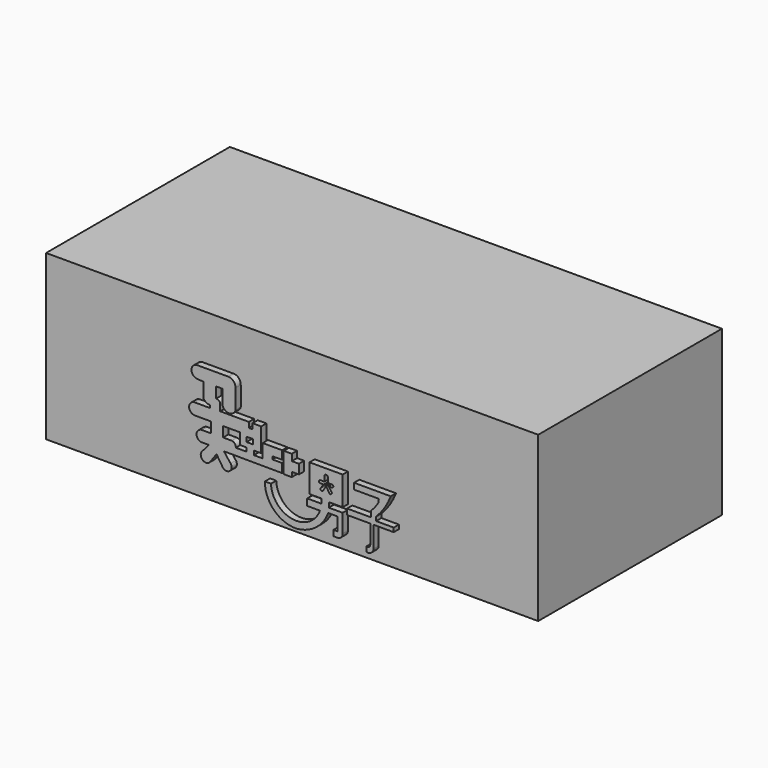
from build123d import *

# Parameters (mm, degrees)
F0_W     = 70
F0_H     = 50
F1_DEPTH = 150
F2_T     = -2.5
F4_DEPTH = 2


with BuildPart() as f1:
    # F0 (on Right) → F1 (new body)
    with BuildSketch(Plane.YZ):
        with Locations((35, 25)):
            Rectangle(F0_W, F0_H)
    extrude(amount=F1_DEPTH)

    # F2
    f2_openings = [f1.faces().sort_by_distance(p)[0] for p in [
        (75, 35, 0),
    ]]
    offset(amount=F2_T, openings=f2_openings)

    # F3 (on Front) → F4 (join)
    with BuildSketch(Plane.XZ):
        with BuildLine():
            Line((57.11453, 36.209103), (47.46139, 36.209103))
            ThreePointArc((47.46139, 36.209103), (45.909707, 34.307581), (47.600284, 32.528408))
            Line((47.600284, 32.528408), (49.579524, 32.389514))
            Line((49.579524, 32.389514), (49.579524, 27.944904))
            ThreePointArc((49.579524, 27.944904), (50.38126, 27.095251), (51.50668, 26.782002))
            ThreePointArc((51.50668, 26.782002), (52.632099, 27.095251), (53.433836, 27.944904))
            Line((53.433836, 27.944904), (53.433836, 29.116847))
            Line((53.433836, 29.116847), (53.433836, 32.389514))
            Line((53.433836, 32.389514), (55.413075, 32.389514))
            Line((55.413075, 32.389514), (55.413075, 27.944904))
            ThreePointArc((55.413075, 27.944904), (57.374954, 26.432392), (59.336834, 27.944904))
            Line((59.336834, 27.944904), (59.336834, 33.917353))
            ThreePointArc((59.336834, 33.917353), (58.710678, 35.533527), (57.11453, 36.209103))
        make_face()
        with BuildLine():
            ThreePointArc((53.433836, 27.944904), (52.632099, 27.095251), (51.50668, 26.782002))
            Line((51.50668, 26.782002), (51.50668, 25.973246))
            Line((51.50668, 25.973246), (46.945356, 25.973246))
            ThreePointArc((46.945356, 25.973246), (45.1954, 24.223289), (46.945356, 22.473333))
            Line((46.945356, 22.473333), (51.845234, 22.473333))
            Line((51.845234, 22.473333), (51.845234, 19.279664))
            Line((51.845234, 19.279664), (49.132802, 19.279664))
            ThreePointArc((49.132802, 19.279664), (47.470343, 17.617206), (49.132802, 15.954748))
            Line((49.132802, 15.954748), (51.232748, 15.954748))
            Line((51.232748, 15.954748), (49.132802, 13.548559))
            ThreePointArc((49.132802, 13.548559), (49.262718, 11.31813), (51.495243, 11.404863))
            Line((51.495243, 11.404863), (53.551439, 14.24854))
            Line((53.551439, 14.24854), (55.388894, 11.404863))
            ThreePointArc((55.388894, 11.404863), (57.530578, 10.996438), (57.838831, 13.154818))
            Line((57.838831, 13.154818), (55.80093, 15.74391))
            Line((55.80093, 15.74391), (58.145076, 15.74391))
            Line((58.145076, 15.74391), (73.538758, 15.648505))
            Line((73.538758, 15.648505), (73.538758, 18.361211))
            Line((73.538758, 18.361211), (70.587255, 18.361211))
            Line((70.587255, 18.361211), (70.587255, 19.2293))
            Line((70.587255, 19.2293), (73.538758, 19.2293))
            Line((73.538758, 19.2293), (73.538758, 21.79884))
            Line((73.538758, 21.79884), (67.63576, 21.79884))
            Line((67.63576, 21.79884), (67.63576, 17.66674))
            Line((67.63576, 17.66674), (64.927325, 17.66674))
            Line((64.927325, 17.66674), (64.927325, 18.916788))
            Line((64.927325, 18.916788), (67.149632, 18.916788))
            Line((67.149632, 18.916788), (67.149632, 26.104558))
            Line((67.149632, 26.104558), (64.510643, 26.104558))
            Line((64.510643, 26.104558), (64.510643, 24.472551))
            Line((64.510643, 24.472551), (63.399486, 24.472551))
            Line((63.399486, 24.472551), (63.399486, 26.104558))
            Line((63.399486, 26.104558), (54.681171, 26.104558))
            Line((54.681171, 26.104558), (54.681171, 27.944904))
            ThreePointArc((54.681171, 27.944904), (54.310984, 28.800663), (53.433836, 29.116847))
            Line((53.433836, 29.116847), (53.433836, 27.944904))
        make_face()
        with BuildLine():
            Line((55.563889, 19.367162), (55.563889, 22.429585))
            Line((55.563889, 22.429585), (60.682509, 22.429585))
            Line((60.682509, 22.429585), (60.682509, 19.017169))
            Line((60.682509, 19.017169), (62.694959, 19.017169))
            Line((62.694959, 19.017169), (62.694959, 17.8797))
            Line((62.694959, 17.8797), (59.413794, 17.8797))
            ThreePointArc((59.413794, 17.8797), (59.113771, 18.903701), (58.145076, 19.351165))
            Line((58.145076, 19.351165), (55.563889, 19.367162))
        make_face(mode=Mode.SUBTRACT)
        Polygon((62.694959, 20.460883), (62.694959, 21.904599), (64.663664, 21.948347), (64.663664, 20.460883), align=None, mode=Mode.SUBTRACT)
        Polygon((76.495692, 21.79884), (74.030101, 21.79884), (74.030101, 15.532267), (76.495692, 15.532267), (76.495692, 16.965751), (78.674585, 16.965751), (78.674585, 19.832715), (76.495692, 19.832715), align=None)
        with BuildLine():
            Line((91.996334, 12.50622), (91.996334, 21.270147))
            Line((91.996334, 21.270147), (81.880391, 21.270147))
            Line((81.880391, 21.270147), (81.880391, 12.74765))
            Line((81.880391, 12.74765), (85.50185, 12.74765))
            Line((85.50185, 12.74765), (85.50185, 11.347353))
            Line((85.50185, 11.347353), (81.180245, 11.347353))
            Line((81.180245, 11.347353), (81.180245, 9.633197))
            Line((81.180245, 9.633197), (81.180245, 9.335577))
            Line((81.180245, 9.335577), (85.081376, 9.335577))
            ThreePointArc((85.081376, 9.335577), (76.634992, 4.361003), (70.154078, 11.715291))
            Line((70.154078, 11.715291), (68.28817, 11.715291))
            ThreePointArc((68.28817, 11.715291), (71.119618, 4.873442), (78.023359, 2.196435))
            ThreePointArc((78.023359, 2.196435), (83.870671, 4.472691), (87.590158, 9.526185))
            Line((87.590158, 9.526185), (90.47015, 9.526185))
            Line((90.47015, 9.526185), (90.47015, 5.510417))
            Line((90.47015, 5.510417), (89.181907, 5.510417))
            Line((89.181907, 5.510417), (89.181907, 3.806551))
            Line((89.181907, 3.806551), (90.68878, 3.806551))
            ThreePointArc((90.68878, 3.806551), (91.62855, 4.383871), (91.996334, 5.423679))
            Line((91.996334, 5.423679), (91.996334, 11.00935))
            Line((91.996334, 11.00935), (87.771297, 11.00935))
            Line((87.771297, 11.00935), (87.771297, 12.50622))
            Line((87.771297, 12.50622), (91.996334, 12.50622))
        make_face()
        with BuildLine():
            ThreePointArc((86.42818, 18.893627), (86.959373, 19.572715), (87.490566, 18.893627))
            Line((87.490566, 18.893627), (87.490566, 17.541504))
            Line((87.490566, 17.541504), (88.762209, 17.541504))
            ThreePointArc((88.762209, 17.541504), (89.172675, 17.131037), (88.762209, 16.720571))
            Line((88.762209, 16.720571), (87.683722, 16.720571))
            Line((87.683722, 16.720571), (88.617332, 15.497221))
            ThreePointArc((88.617332, 15.497221), (88.694215, 15.11667), (88.442416, 14.821159))
            ThreePointArc((88.442416, 14.821159), (88.264398, 14.783906), (88.086381, 14.821159))
            Line((88.086381, 14.821159), (87.764211, 14.821159))
            Line((87.764211, 14.821159), (86.186729, 14.821159))
            Line((86.186729, 14.821159), (85.832366, 14.821159))
            ThreePointArc((85.832366, 14.821159), (85.654348, 14.783906), (85.476331, 14.821159))
            ThreePointArc((85.476331, 14.821159), (85.224532, 15.11667), (85.301414, 15.497221))
            Line((85.301414, 15.497221), (86.235024, 16.720571))
            Line((86.235024, 16.720571), (85.156538, 16.720571))
            ThreePointArc((85.156538, 16.720571), (84.746071, 17.131037), (85.156538, 17.541504))
            Line((85.156538, 17.541504), (86.42818, 17.541504))
            Line((86.42818, 17.541504), (86.42818, 18.893627))
        make_face(mode=Mode.SUBTRACT)
        with BuildLine():
            Line((106.654562, 20.205654), (95.455378, 20.205654))
            Line((95.455378, 20.205654), (95.455378, 18.35208))
            Line((95.455378, 18.35208), (101.575367, 18.35208))
            Line((101.575367, 18.35208), (103.034772, 18.35208))
            Line((103.034772, 18.35208), (102.845654, 17.135097))
            Line((102.845654, 17.135097), (101.776361, 15.61341))
            Line((101.776361, 15.61341), (100.624815, 14.338483))
            Line((100.624815, 14.338483), (100.624815, 12.600102))
            Line((100.624815, 12.600102), (93.343966, 12.600102))
            Line((93.343966, 12.600102), (93.343966, 10.864255))
            Line((93.343966, 10.864255), (100.416891, 10.864255))
            Line((100.416891, 10.864255), (100.416891, 5.193939))
            ThreePointArc((100.416891, 5.193939), (100.047414, 4.480832), (99.251762, 4.371406))
            Line((99.251762, 4.371406), (99.251762, 2.890847))
            ThreePointArc((99.251762, 2.890847), (100.685052, 3.105352), (101.390347, 4.371406))
            Line((101.390347, 4.371406), (101.390347, 10.864255))
            Line((101.390347, 10.864255), (107.559353, 10.864255))
            Line((107.559353, 10.864255), (107.559353, 12.103219))
            Line((107.559353, 12.103219), (102.212884, 12.103219))
            Line((102.212884, 12.103219), (102.212884, 13.337018))
            ThreePointArc((102.212884, 13.337018), (104.800372, 16.534238), (106.654562, 20.205654))
        make_face()
        with BuildLine():
            Line((87.764211, 14.821159), (88.086381, 14.821159))
            ThreePointArc((88.086381, 14.821159), (87.917839, 14.950376), (87.828599, 15.143093))
            Line((87.828599, 15.143093), (86.959373, 16.527411))
            Line((86.959373, 16.527411), (86.090147, 15.143093))
            ThreePointArc((86.090147, 15.143093), (86.000907, 14.950376), (85.832366, 14.821159))
            Line((85.832366, 14.821159), (86.186729, 14.821159))
            Line((86.186729, 14.821159), (87.764211, 14.821159))
        make_face()
    extrude(amount=F4_DEPTH)


solid = f1.part
